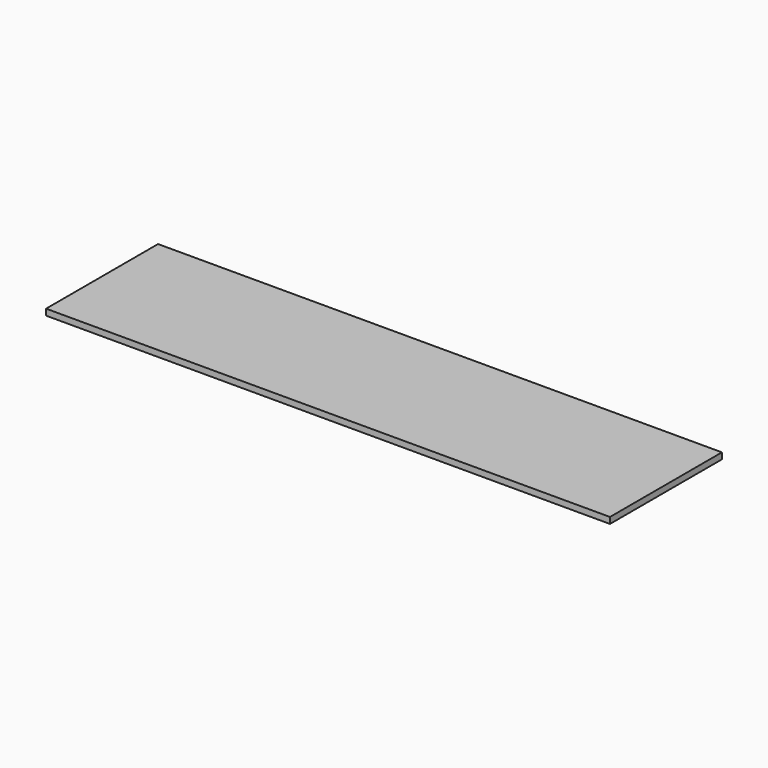
from build123d import *

# Parameters (mm, degrees)
F0_W     = 1739.9
F0_H     = 19.05
F1_DEPTH = 431.8
F2_R     = 3.175
F3_DEPTH = 9.525
F4_W     = 9.525
F4_H     = 76.2
F4_W_2   = 234.95
F4_H_2   = 234.95
F5_DEPTH = 3.175


with BuildPart() as f1:
    # F0 (on Front) → F1 (new body)
    with BuildSketch(Plane.XZ):
        with Locations((869.95, 9.525)):
            Rectangle(F0_W, F0_H)
    extrude(amount=-F1_DEPTH)

    # F2 (on face) → F3 (cut)
    with BuildSketch(Plane(origin=(0, 0, 0), x_dir=(1, 0, 0), z_dir=(0, 0, -1))):
        with Locations((1730.375, -381)):
            Circle(F2_R)
        with Locations((1730.375, -215.9)):
            Circle(F2_R)
        with Locations((1730.375, -50.8)):
            Circle(F2_R)
        with Locations((9.525, -381)):
            Circle(F2_R)
        with Locations((9.525, -215.9)):
            Circle(F2_R)
        with Locations((9.525, -50.8)):
            Circle(F2_R)
        with Locations((1384.3, -50.8)):
            Circle(F2_R)
        with Locations((1384.3, -279.4)):
            Circle(F2_R)
        with Locations((698.5, -50.8)):
            Circle(F2_R)
        with Locations((355.6, -279.4)):
            Circle(F2_R)
        with Locations((698.5, -279.4)):
            Circle(F2_R)
        with Locations((1041.4, -50.8)):
            Circle(F2_R)
        with Locations((1041.4, -279.4)):
            Circle(F2_R)
        with Locations((355.6, -50.8)):
            Circle(F2_R)
    extrude(amount=-F3_DEPTH, mode=Mode.SUBTRACT)

    # F4 (on face) → F5 (cut)
    with BuildSketch(Plane(origin=(0, 0, 0), x_dir=(1, 0, 0), z_dir=(0, 0, -1))):
        with Locations((1677.9875, -330.2)):
            Rectangle(F4_W, F4_H)
        Polygon((1673.225, -292.1), (1682.75, -292.1), (1682.75, -38.1), (1428.75, -38.1), (1428.75, -292.1), align=None)
        with Locations((1555.75, -165.1)):
            Rectangle(F4_W_2, F4_H_2, mode=Mode.SUBTRACT)
        with Locations((1335.0875, -330.2)):
            Rectangle(F4_W, F4_H)
        Polygon((1330.325, -292.1), (1339.85, -292.1), (1339.85, -38.1), (1085.85, -38.1), (1085.85, -292.1), align=None)
        with Locations((1212.85, -165.1)):
            Rectangle(F4_W_2, F4_H_2, mode=Mode.SUBTRACT)
        with Locations((992.1875, -330.2)):
            Rectangle(F4_W, F4_H)
        Polygon((987.425, -292.1), (996.95, -292.1), (996.95, -38.1), (742.95, -38.1), (742.95, -292.1), align=None)
        with Locations((869.95, -165.1)):
            Rectangle(F4_W_2, F4_H_2, mode=Mode.SUBTRACT)
        with Locations((649.2875, -330.2)):
            Rectangle(F4_W, F4_H)
        Polygon((644.525, -292.1), (654.05, -292.1), (654.05, -38.1), (400.05, -38.1), (400.05, -292.1), align=None)
        with Locations((527.05, -165.1)):
            Rectangle(F4_W_2, F4_H_2, mode=Mode.SUBTRACT)
        with Locations((306.3875, -330.2)):
            Rectangle(F4_W, F4_H)
        Polygon((301.625, -292.1), (311.15, -292.1), (311.15, -38.1), (57.15, -38.1), (57.15, -292.1), align=None)
        with Locations((184.15, -165.1)):
            Rectangle(F4_W_2, F4_H_2, mode=Mode.SUBTRACT)
    extrude(amount=-F5_DEPTH, mode=Mode.SUBTRACT)


solid = f1.part
